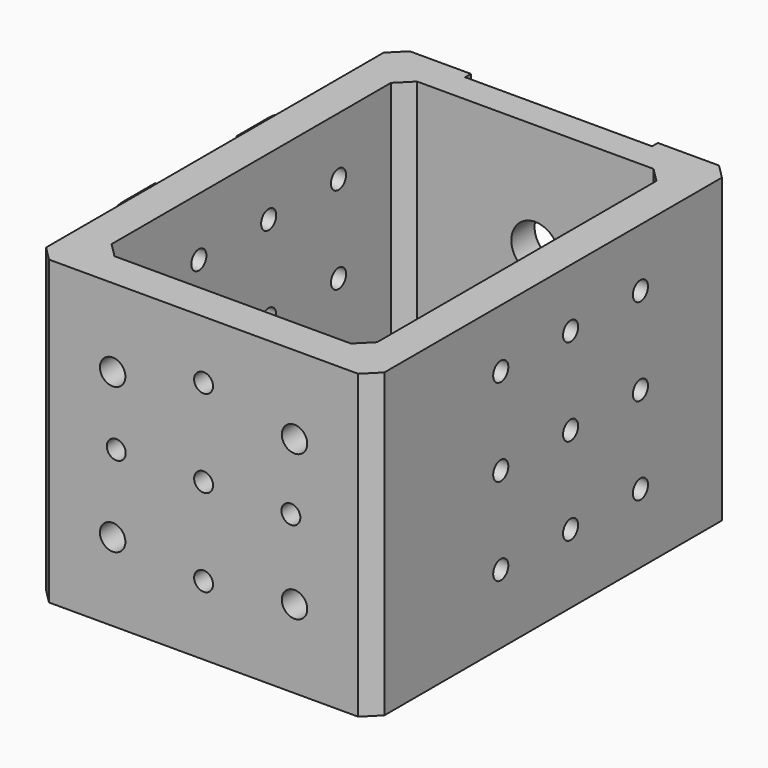
from build123d import *

# Parameters (mm, degrees)
F0_W      = 46.5
F0_H      = 62
F0_W_2    = 36.5
F0_H_2    = 52
F1_DEPTH  = 41.5
F2_SIZE   = 2
F3_R      = 1.75
F4_DEPTH  = 10
F5_R      = 1.3
F6_DEPTH  = 46.501
F7_R      = 3.3
F8_DEPTH  = 10
F9_W      = 25.7
F9_H      = 27.6
F10_DEPTH = 1
F11_R     = 3.25
F12_DEPTH = 1
F13_R     = 5
F14_R     = 1.3
F15_DEPTH = 10
F16_R     = 1.7
F17_DEPTH = 5
F18_W     = 14
F18_H     = 32
F19_DEPTH = 1.2
F20_W     = 14
F20_H     = 0.8
F21_DEPTH = 0.7


with BuildPart() as f1:
    # F0 (on Top) → F1 (new body)
    with BuildSketch(Plane.XY):
        Rectangle(F0_W, F0_H)
        Rectangle(F0_W_2, F0_H_2, mode=Mode.SUBTRACT)
    extrude(amount=F1_DEPTH)

    # F2
    f2_edges = [f1.edges().sort_by_distance(p)[0] for p in [
        (18.25, 26, 20.75),
        (-18.25, 26, 20.75),
        (18.25, -26, 20.75),
        (-18.25, -26, 20.75),
        (-23.25, -31, 20.75),
        (23.25, -31, 20.75),
        (23.25, 31, 20.75),
        (-23.25, 31, 20.75),
    ]]
    chamfer(f2_edges, length=F2_SIZE)

    # F3 (on face) → F4 (cut)
    with BuildSketch(Plane.XZ.offset(31)):
        with Locations((-12.5, 30.75)):
            Circle(F3_R)
        with Locations((12.5, 30.75)):
            Circle(F3_R)
        with Locations((-12.5, 10.75)):
            Circle(F3_R)
        with Locations((12.5, 10.75)):
            Circle(F3_R)
    extrude(amount=-F4_DEPTH, mode=Mode.SUBTRACT)

    # F5 (on face) → F6 (cut, through all)
    with BuildSketch(Plane(origin=(-23.25, 0, 0), x_dir=(0, -1, 0), z_dir=(-1, 0, 0))):
        with Locations((-3, 33.5)):
            Circle(F5_R)
        with Locations((-3, 21.5)):
            Circle(F5_R)
        with Locations((-3, 9.5)):
            Circle(F5_R)
        with Locations((9, 21.5)):
            Circle(F5_R)
        with Locations((-15, 21.5)):
            Circle(F5_R)
        with Locations((-15, 33.5)):
            Circle(F5_R)
        with Locations((9, 33.5)):
            Circle(F5_R)
        with Locations((9, 9.5)):
            Circle(F5_R)
        with Locations((-15, 9.5)):
            Circle(F5_R)
    extrude(amount=-F6_DEPTH, mode=Mode.SUBTRACT)

    # F7 (on face) → F8 (cut)
    with BuildSketch(Plane(origin=(0, 31, 0), x_dir=(-1, 0, 0), z_dir=(0, 1, 0))):
        with Locations((0, 26.5)):
            Circle(F7_R)
    extrude(amount=-F8_DEPTH, mode=Mode.SUBTRACT)

    # F9 (on face) → F10 (cut)
    with BuildSketch(Plane(origin=(0, 31, 0), x_dir=(-1, 0, 0), z_dir=(0, 1, 0))):
        with Locations((0, 27.7)):
            Rectangle(F9_W, F9_H)
    extrude(amount=-F10_DEPTH, mode=Mode.SUBTRACT)

    # F11 (on face) → F12 (cut, through all)
    with BuildSketch(Plane(origin=(0, 31, 0), x_dir=(-1, 0, 0), z_dir=(0, 1, 0))):
        with Locations((-12.85, 13.9)):
            Circle(F11_R)
        with Locations((12.85, 13.9)):
            Circle(F11_R)
    extrude(amount=-F12_DEPTH, mode=Mode.SUBTRACT)

    # F13
    f13_edges = [f1.edges().sort_by_distance(p)[0] for p in [
        (12.85, 30.5, 17.15),
        (-12.85, 30.5, 17.15),
        (-9.6, 30.5, 13.9),
        (9.6, 30.5, 13.9),
    ]]
    fillet(f13_edges, radius=F13_R)

    # F14 (on face) → F15 (cut)
    with BuildSketch(Plane.XZ.offset(31)):
        with Locations((0, 21.5)):
            Circle(F14_R)
        with Locations((0, 9.5)):
            Circle(F14_R)
        with Locations((0, 33.5)):
            Circle(F14_R)
        with Locations((-12, 21.5)):
            Circle(F14_R)
        with Locations((12, 21.5)):
            Circle(F14_R)
    extrude(amount=-F15_DEPTH, mode=Mode.SUBTRACT)


with BuildPart() as f17:
    # F16 (on face) → F17 (new body)
    with BuildSketch(Plane(origin=(-23.25, 0, 0), x_dir=(0, -1, 0), z_dir=(-1, 0, 0))):
        with BuildLine():
            Line((9.5, 37.5), (-15.5, 37.5))
            ThreePointArc((-15.5, 37.5), (-19.035534, 36.035534), (-20.5, 32.5))
            Line((-20.5, 32.5), (-20.5, 10.5))
            ThreePointArc((-20.5, 10.5), (-19.035534, 6.964466), (-15.5, 5.5))
            Line((-15.5, 5.5), (9.5, 5.5))
            ThreePointArc((9.5, 5.5), (13.035534, 6.964466), (14.5, 10.5))
            Line((14.5, 10.5), (14.5, 32.5))
            ThreePointArc((14.5, 32.5), (13.035534, 36.035534), (9.5, 37.5))
        make_face()
        with Locations((-15, 9.5)):
            Circle(F16_R, mode=Mode.SUBTRACT)
        with Locations((9, 9.5)):
            Circle(F16_R, mode=Mode.SUBTRACT)
        with Locations((-15, 21.5)):
            Circle(F16_R, mode=Mode.SUBTRACT)
        with Locations((-15, 33.5)):
            Circle(F16_R, mode=Mode.SUBTRACT)
        with Locations((9, 21.5)):
            Circle(F16_R, mode=Mode.SUBTRACT)
        with Locations((9, 33.5)):
            Circle(F16_R, mode=Mode.SUBTRACT)
    extrude(amount=F17_DEPTH)

    # F18 (on face) → F19 (cut)
    with BuildSketch(Plane(origin=(-28.25, 0, 0), x_dir=(0, -1, 0), z_dir=(-1, 0, 0))):
        with Locations((-3, 21.5)):
            Rectangle(F18_W, F18_H)
    extrude(amount=-F19_DEPTH, mode=Mode.SUBTRACT)

    # F20 (on face) → F21 (join)
    with BuildSketch(Plane(origin=(-27.05, 0, 0), x_dir=(0, -1, 0), z_dir=(-1, 0, 0))):
        with Locations((-3, 5.9)):
            Rectangle(F20_W, F20_H)
        with Locations((-3, 7.9)):
            Rectangle(F20_W, F20_H)
        with Locations((-3, 9.9)):
            Rectangle(F20_W, F20_H)
        with Locations((-3, 11.9)):
            Rectangle(F20_W, F20_H)
        with Locations((-3, 13.9)):
            Rectangle(F20_W, F20_H)
        with Locations((-3, 15.9)):
            Rectangle(F20_W, F20_H)
        with Locations((-3, 17.9)):
            Rectangle(F20_W, F20_H)
        with Locations((-3, 19.9)):
            Rectangle(F20_W, F20_H)
        with Locations((-3, 21.9)):
            Rectangle(F20_W, F20_H)
        with Locations((-3, 23.9)):
            Rectangle(F20_W, F20_H)
        with Locations((-3, 25.9)):
            Rectangle(F20_W, F20_H)
        with Locations((-3, 27.9)):
            Rectangle(F20_W, F20_H)
        with Locations((-3, 29.9)):
            Rectangle(F20_W, F20_H)
        with Locations((-3, 31.9)):
            Rectangle(F20_W, F20_H)
        with Locations((-3, 33.9)):
            Rectangle(F20_W, F20_H)
        with Locations((-3, 35.9)):
            Rectangle(F20_W, F20_H)
    extrude(amount=F21_DEPTH)


solid = Compound([f1.part, f17.part])
